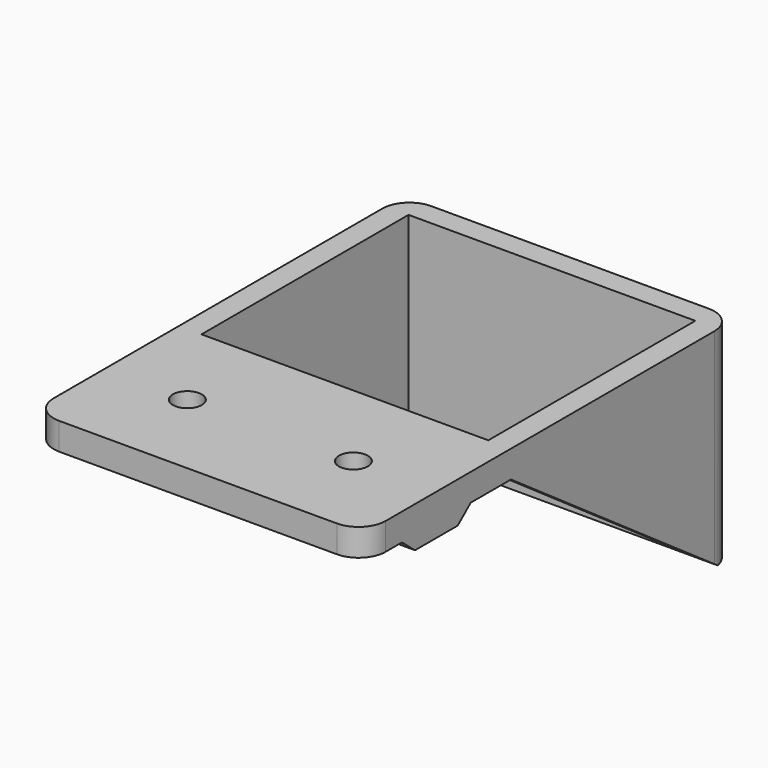
from build123d import *

# Parameters (mm, degrees)
SKETCH_W        = 36.7
SKETCH_H        = 51.4
SKETCH_W_2      = 31.7
SKETCH_H_2      = 28.6
PAD_DEPTH       = 3
PAD001_DEPTH    = 36.7
SKETCH002_R     = 1.6
POCKET_DEPTH    = 4.501
SKETCH003_W     = 9.5
SKETCH003_H     = 9.5
POCKET001_DEPTH = 1.5
SKETCH004_W     = 36.7
SKETCH004_H     = 31.1
PAD002_DEPTH    = 20
PAD002_FACE31_W = 28.6
PAD002_FACE31_H = 31.7
POCKET002_DEPTH = 20.001
POCKET003_DEPTH = 36.701
FILLET_R        = 3


with BuildPart() as part:
    # Sketch → Pad (new body)
    with BuildSketch(Plane.XY):
        with Locations((0, 15.7)):
            Rectangle(SKETCH_W, SKETCH_H)
        with Locations((0, 24.6)):
            Rectangle(SKETCH_W_2, SKETCH_H_2, mode=Mode.SUBTRACT)
    extrude(amount=PAD_DEPTH)

    # Sketch001 (on Face4 of Pad) → Pad001 (join)
    with BuildSketch(Plane(origin=(-18.35, 0, 0), x_dir=(0, -1, 0), z_dir=(-1, 0, 0))):
        Polygon((-4.75, 0), (4.75, 0), (2.95, -1.5), (-2.95, -1.5), align=None)
    extrude(amount=-PAD001_DEPTH)

    # Sketch002 (on Face16 of Pad001) → Pocket (cut, through all)
    with BuildSketch(Plane(origin=(0, 0, -1.5), x_dir=(1, 0, 0), z_dir=(0, 0, -1))):
        with Locations((-9.175, 0)):
            Circle(SKETCH002_R)
        with Locations((9.175, 0)):
            Circle(SKETCH002_R)
    extrude(amount=-POCKET_DEPTH, mode=Mode.SUBTRACT)

    # Sketch003 (on Face18 of Pocket) → Pocket001 (cut)
    with BuildSketch(Plane(origin=(0, 0, -1.5), x_dir=(1, 0, 0), z_dir=(0, 0, -1))):
        with Locations((-9.175, 0)):
            Rectangle(SKETCH003_W, SKETCH003_H)
        with Locations((9.175, 0)):
            Rectangle(SKETCH003_W, SKETCH003_H)
    extrude(amount=-POCKET001_DEPTH, mode=Mode.SUBTRACT)

    # Sketch004 (on Face4 of Pocket001) → Pad002 (join)
    with BuildSketch(Plane(origin=(0, 0, 0), x_dir=(1, 0, 0), z_dir=(0, 0, -1))):
        with Locations((0, -25.85)):
            Rectangle(SKETCH004_W, SKETCH004_H)
    extrude(amount=PAD002_DEPTH)

    # Pad002 Face31 → Pocket002 (cut, through all)
    with BuildSketch(Plane(origin=(0, 24.6, 0), x_dir=(0, 1, 0), z_dir=(0, 0, 1))):
        Rectangle(PAD002_FACE31_W, PAD002_FACE31_H)
    extrude(amount=-POCKET002_DEPTH, mode=Mode.SUBTRACT)

    # Sketch005 (on Face11 of Pocket002) → Pocket003 (cut, through all)
    with BuildSketch(Plane.YZ.offset(18.35)):
        Polygon((10.3, 0), (10.3, -20), (38.9, -20), align=None)
    extrude(amount=-POCKET003_DEPTH, mode=Mode.SUBTRACT)

    # Fillet
    fillet_edges = [part.edges().sort_by_distance(p)[0] for p in [
        (18.35, 41.4, -10),
        (-18.35, 41.4, -10),
        (-18.35, -10, 1.5),
        (18.35, -10, 1.5),
    ]]
    fillet(fillet_edges, radius=FILLET_R)


solid = part.part
